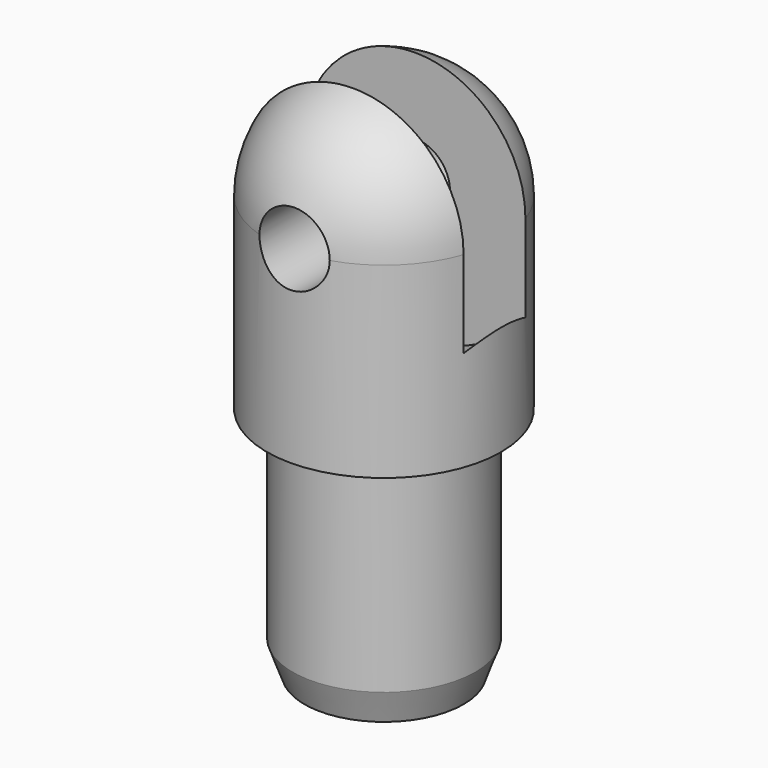
from build123d import *

# Parameters (mm, degrees)
F0_R      = 12.7
F1_DEPTH  = 20.32
F2_R      = 15.24
F5_DEPTH  = 4.191
F6_R      = 3.81
F7_DEPTH  = 63.5
F8_R      = 9.906
F9_DEPTH  = 25.4
F10_SIZE2 = 3.4892963227
F10_SIZE  = 1.27


with BuildPart() as f1:
    # F0 (on Top) → F1 (new body)
    with BuildSketch(Plane.XY):
        Circle(F0_R)
    extrude(amount=-F1_DEPTH)

    # F3 (on Front) → F4 (revolve)
    with BuildSketch(Plane.XZ):
        with BuildLine():
            Line((0, 12.7), (0, 0))
            Line((0, 0), (12.7, 0))
            ThreePointArc((12.7, 0), (8.9802561211, 8.9802561211), (0, 12.7))
        make_face()
    revolve(axis=Axis((0, 0, 6.8661598489), (0, 0, -1)))

    # F2 (on Front) → F5 (cut, symmetric)
    with BuildSketch(Plane.XZ):
        Circle(F2_R)
    extrude(amount=F5_DEPTH, both=True, mode=Mode.SUBTRACT)

    # F6 (on face) → F7 (cut, symmetric)
    with BuildSketch(Plane(origin=(0, -4.191, 0), x_dir=(-1, 0, 0), z_dir=(0, 1, 0))):
        Circle(F6_R)
    extrude(amount=F7_DEPTH, both=True, mode=Mode.SUBTRACT)

    # F8 (on face) → F9 (join)
    with BuildSketch(Plane(origin=(0, 0, -20.32), x_dir=(1, 0, 0), z_dir=(0, 0, -1))):
        Circle(F8_R)
    extrude(amount=F9_DEPTH)

    # F10
    f10_edges = [f1.edges().sort_by_distance(p)[0] for p in [
        (-9.906, 0, -45.72),
    ]]
    f10_side = f1.faces().sort_by_distance((0, 0, -45.72))[0]
    chamfer(f10_edges, length=F10_SIZE, length2=F10_SIZE2, reference=f10_side)


solid = f1.part
